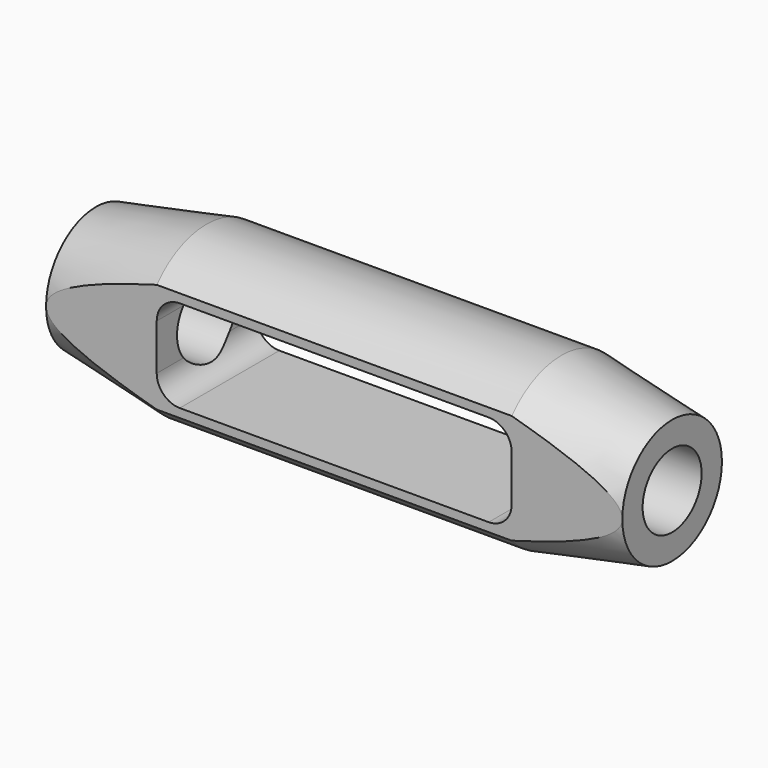
from build123d import *

# Parameters (mm, degrees)
SKETCH022_R      = 8
EXTRUDE011_DEPTH = 150
EXTRUDE010_DEPTH = 30
SKETCH020_W      = 15
SKETCH020_H      = 79.05159
SKETCH020_H_2    = 80
EXTRUDE009_DEPTH = 150


with BuildPart() as extrude011:
    # Sketch022 → Extrude011 (new body, symmetric)
    with BuildSketch(Plane.YZ):
        Circle(SKETCH022_R)
    extrude(amount=EXTRUDE011_DEPTH, both=True)


with BuildPart() as extrude010:
    # Sketch021 → Extrude010 (new body, symmetric)
    with BuildSketch(Plane.XZ):
        with BuildLine():
            Line((38.5, 5), (38.5, -5))
            ThreePointArc((33.5, -10), (37.035534, -8.535534), (38.5, -5))
            Line((33.5, -10), (-33.5, -10))
            ThreePointArc((-38.5, -5), (-37.035534, -8.535534), (-33.5, -10))
            Line((-38.5, -5), (-38.5, 5))
            ThreePointArc((-33.5, 10), (-37.035534, 8.535534), (-38.5, 5))
            Line((-33.5, 10), (33.5, 10))
            ThreePointArc((38.5, 5), (37.035534, 8.535534), (33.5, 10))
        make_face()
    extrude(amount=EXTRUDE010_DEPTH, both=True)


with BuildPart() as extrude009:
    # Sketch020 → Extrude009 (new body, symmetric)
    with BuildSketch(Plane.YZ):
        with Locations((-21, 0.159191)):
            Rectangle(SKETCH020_W, SKETCH020_H)
        with Locations((21, -0.315014)):
            Rectangle(SKETCH020_W, SKETCH020_H_2)
    extrude(amount=EXTRUDE009_DEPTH, both=True)


with BuildPart() as obj1:
    # Sketch019 → Revolve001 (revolve)
    with BuildSketch(Plane.XZ):
        Polygon((-62.5, 0), (-62.5, 13.5), (-38.5, 18), (38.5, 18), (62.5, 13.5), (62.5, 0), align=None)
    revolve(axis=Axis((-62.5, 0, 0), (-1, 0, 0)))

    # Cut009: cut Extrude009
    add(extrude009.part, mode=Mode.SUBTRACT)

    # Cut010: cut Extrude010
    add(extrude010.part, mode=Mode.SUBTRACT)

    # Cut011: cut Extrude011
    add(extrude011.part, mode=Mode.SUBTRACT)


with BuildPart() as obj1_1:
    # Cut011 placement: moved
    add(obj1.part.moved(Location((-190, 0, 0))))


solid = obj1_1.part
